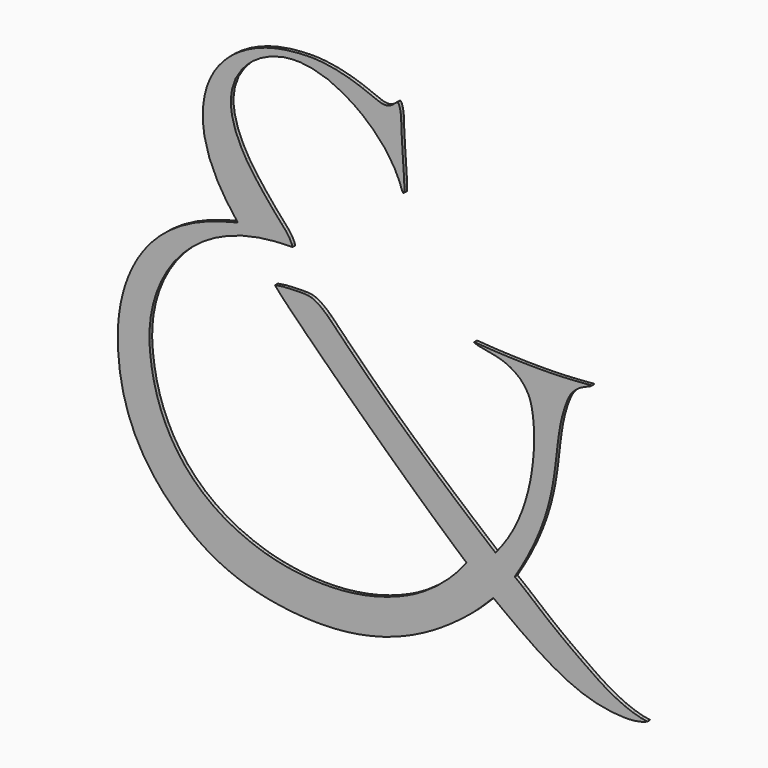
from build123d import *

# Parameters (mm, degrees)
F1_DEPTH = 2


with BuildPart() as f1:
    # F0 (on Front) → F1 (new body)
    with BuildSketch(Plane.XZ):
        Polygon((10.984825, 95.310414), (10.884039, 98.573952), (10.849697, 99.346204), (9.816774, 115.323175), (9.189251, 126.515287), (9.189251, 127.130044), (9.175296, 128.453485), (9.080587, 130.667887), (8.839792, 133.007227), (8.412451, 135.171226), (7.839021, 136.809596), (7.344427, 137.596618), (7.155433, 137.743794), (6.653659, 137.478659), (6.07927, 137.087629), (5.920722, 136.963303), (5.843852, 136.902766), (5.438877, 136.556776), (4.60922, 135.846624), (3.453265, 134.994965), (1.82517, 134.142297), (0.690024, 133.963063), (-0.098912, 133.857064), (-1.47029, 133.96024), (-2.630014, 134.201964), (-3.415205, 134.443412), (-3.760815, 134.566462), (-13.383422, 138.253706), (-15.286764, 138.978047), (-21.221278, 140.88721), (-28.959907, 142.784285), (-36.497158, 143.92293), (-41.935522, 144.299776), (-43.692293, 144.299776), (-45.42664, 144.299776), (-50.706378, 144.071049), (-57.404764, 143.386069), (-63.691599, 142.258417), (-69.597226, 140.69668), (-75.120392, 138.710518), (-80.269026, 136.301556), (-85.091415, 133.453487), (-88.44924, 131.077711), (-89.468298, 130.246729), (-90.471954, 129.427418), (-93.418494, 126.661828), (-96.879731, 122.761714), (-99.760712, 118.654363), (-102.11394, 114.287918), (-103.949154, 109.641041), (-105.271703, 104.693895), (-106.08001, 99.381371), (-106.350042, 95.186199), (-106.350042, 93.827422), (-106.350042, 91.417683), (-105.418475, 83.898526), (-102.56453, 73.596483), (-97.737036, 63.091849), (-92.771587, 54.98952), (-86.007072, 45.751051), (-96.405688, 42.975838), (-103.435836, 40.655145), (-111.855108, 37.130373), (-119.271235, 33.146491), (-125.791389, 28.757648), (-131.484499, 24.030643), (-136.415589, 19.028048), (-140.647441, 13.807643), (-144.237232, 8.430757), (-147.234688, 2.957684), (-149.691932, -2.547085), (-151.656035, -8.017346), (-153.174243, -13.38127), (-154.294734, -18.565772), (-155.064381, -23.497421), (-155.535942, -28.124426), (-155.725698, -31.26379), (-155.753535, -32.291427), (-155.826462, -34.855012), (-155.627517, -42.648644), (-154.62149, -52.941014), (-152.695038, -63.001567), (-149.789868, -72.822045), (-145.850395, -82.364778), (-140.817922, -91.590423), (-134.594908, -100.50522), (-129.133817, -106.971908), (-127.202645, -108.952277), (-126.427004, -109.747399), (-124.039805, -112.11472), (-120.724905, -115.243744), (-117.260518, -118.293027), (-113.614318, -121.256804), (-109.760806, -124.118397), (-105.672331, -126.863694), (-101.324544, -129.475199), (-96.685646, -131.938442), (-91.730685, -134.236135), (-86.427529, -136.350509), (-80.748891, -138.263921), (-74.665292, -139.955146), (-68.147932, -141.405949), (-61.168593, -142.592185), (-53.679966, -143.498208), (-47.697126, -143.98821), (-45.714616, -144.092905), (-43.702952, -144.201599), (-37.58552, -144.298314), (-29.73374, -144.043566), (-22.228544, -143.361145), (-15.030776, -142.28261), (-8.130211, -140.8411), (-1.515594, -139.066607), (4.820519, -136.991029), (10.887858, -134.645034), (16.694078, -132.057397), (22.249795, -129.259063), (27.55979, -126.282281), (32.630684, -123.15614), (37.470885, -119.911192), (42.085517, -116.578115), (46.490202, -113.181457), (49.63613, -110.635907), (50.668104, -109.772439), (51.078406, -109.43037), (52.337846, -108.324181), (54.396569, -106.439091), (56.734498, -104.210753), (58.652015, -102.33518), (62.778578, -98.2248), (69.450406, -103.233587), (77.715906, -109.253099), (87.823057, -116.191018), (97.199715, -121.979003), (106.045727, -126.639839), (114.558778, -130.205497), (122.965297, -132.718454), (131.575515, -134.225823), (138.301294, -134.726541), (140.497331, -134.726541), (141.459567, -134.726541), (144.471784, -134.527217), (147.932825, -133.98181), (150.724068, -133.195355), (152.499477, -132.428146), (148.754145, -131.794817), (144.037602, -130.491118), (139.046019, -128.614528), (133.757344, -126.135804), (128.185086, -123.038434), (123.716844, -120.240915), (122.247989, -119.245058), (120.032189, -117.744638), (113.450799, -113.174613), (106.165661, -107.93466), (100.100232, -103.376555), (95.004209, -99.373423), (90.628857, -95.802796), (86.711908, -92.542669), (82.994752, -89.457808), (80.158778, -87.160918), (75.264201, -83.316635), (79.096558, -76.92787), (82.659892, -70.515348), (86.656432, -62.51045), (89.900086, -55.013351), (92.499315, -47.962272), (94.543809, -41.314991), (96.129008, -35.024113), (97.342752, -29.044773), (98.271973, -23.325883), (99.006962, -17.818682), (99.631291, -12.478403), (100.238547, -7.257027), (100.922932, -2.118394), (101.776727, 2.976898), (102.910345, 8.059918), (104.414104, 13.097924), (105.853703, 16.92614), (106.423654, 18.198648), (106.767016, 18.977912), (108.012083, 21.062114), (110.267687, 23.640002), (113.317394, 25.865172), (116.226583, 27.317756), (117.321772, 27.723193), (117.874406, 27.918954), (119.397602, 28.655386), (120.178866, 29.257588), (120.141771, 29.257588), (120.040094, 29.257588), (119.382159, 29.212402), (117.410931, 29.055452), (114.596703, 28.82694), (110.982093, 28.561783), (106.623679, 28.298209), (101.559403, 28.06698), (95.835715, 27.904073), (91.063246, 27.841284), (89.461111, 27.841284), (87.41275, 27.841284), (81.294699, 27.903671), (74.117089, 28.067989), (67.91348, 28.298534), (62.696189, 28.564125), (58.478011, 28.829387), (55.278213, 29.05767), (53.112559, 29.214974), (52.459591, 29.25858), (52.377218, 29.2578), (52.172634, 29.256193), (51.60924, 29.195203), (52.008284, 28.912284), (52.961491, 28.48137), (54.069245, 28.157184), (54.396377, 28.093247), (63.981985, 26.246596), (64.761637, 26.083785), (66.838863, 25.528166), (69.695431, 24.538216), (72.649378, 23.183025), (75.578024, 21.41235), (78.377855, 19.16517), (80.914558, 16.379922), (82.976691, 13.106975), (84.208204, 10.222669), (84.512886, 9.143074), (84.748612, 8.31975), (85.277112, 5.945773), (85.853999, 2.409432), (86.262112, -1.549621), (86.488771, -5.86755), (86.512988, -10.506897), (86.322431, -15.424984), (85.894669, -20.582159), (85.210349, -25.931595), (84.246885, -31.429931), (82.981911, -37.026036), (81.390644, -42.67482), (79.452694, -48.325919), (77.13798, -53.932893), (74.423557, -59.44128), (71.302543, -64.76656), (68.663209, -68.66311), (64.084551, -74.685084), (56.793323, -68.617176), (48.704164, -61.809733), (38.736701, -53.299947), (29.558226, -45.322535), (21.13736, -37.871796), (13.437888, -30.933081), (6.426795, -24.496625), (0.066539, -18.551085), (-5.676941, -13.082163), (-10.837672, -8.082274), (-15.450703, -3.539071), (-19.548204, 0.55843), (-23.165581, 4.217433), (-26.333951, 7.447973), (-29.082633, 10.255957), (-31.446306, 12.651059), (-32.940563, 14.141117), (-33.432989, 14.619536), (-34.195959, 15.361627), (-36.639343, 17.493329), (-39.368668, 19.47485), (-41.601163, 20.683445), (-43.527293, 21.371755), (-45.397128, 21.731497), (-47.470811, 21.87045), (-49.922388, 21.85668), (-52.060066, 21.803508), (-52.811625, 21.79212), (-54.540591, 21.767752), (-59.695939, 21.459085), (-64.172325, 20.744414), (-64.290635, 20.69638), (-63.157208, 19.290168), (-61.080828, 16.957448), (-58.955786, 14.695306), (-58.239267, 13.953642), (-57.31215, 12.995204), (-54.497266, 10.118612), (-50.12683, 5.707254), (-45.197594, 0.79041), (-39.766274, -4.573582), (-33.893825, -10.322443), (-27.639366, -16.395272), (-21.059861, -22.731279), (-14.216282, -29.272552), (-7.167008, -35.954919), (0.029411, -42.721103), (7.313644, -49.509317), (14.626168, -56.258347), (21.910008, -62.907983), (29.105519, -69.400265), (36.155068, -75.673109), (41.278682, -80.175571), (47.227798, -85.339996), (42.066841, -91.478927), (37.128369, -96.551473), (30.134052, -102.59404), (22.762428, -107.767502), (17.118703, -111.060606), (15.122437, -112.044233), (13.387753, -112.900116), (8.154531, -115.180686), (1.286462, -117.712362), (-5.530193, -119.718632), (-12.223239, -121.235983), (-18.751052, -122.312237), (-25.076335, -122.996751), (-31.165572, -123.336849), (-36.978286, -123.378638), (-42.481361, -123.172309), (-47.639011, -122.763035), (-52.41612, -122.197615), (-56.777133, -121.522744), (-60.685556, -120.785024), (-64.111105, -120.029247), (-67.000773, -119.303962), (-68.769888, -118.819162), (-69.367279, -118.64354), (-71.604203, -117.987451), (-78.128401, -115.70924), (-86.148743, -112.292936), (-93.544462, -108.388352), (-100.296488, -104.045367), (-106.417516, -99.299539), (-111.919492, -94.191884), (-116.818356, -88.763575), (-121.130967, -83.059315), (-124.878856, -77.12146), (-128.083429, -70.991977), (-130.770417, -64.712759), (-132.963131, -58.322502), (-134.689777, -51.861389), (-135.977617, -45.36441), (-136.847718, -38.892714), (-137.257486, -34.042676), (-137.33405, -32.40009), (-137.414398, -30.695404), (-137.322702, -25.70839), (-136.66445, -19.033639), (-135.34204, -12.303726), (-133.349445, -5.629732), (-130.671278, 0.918676), (-127.295573, 7.271369), (-123.205431, 13.35542), (-118.392536, 19.093053), (-112.849385, 24.406702), (-106.568097, 29.218841), (-99.552098, 33.450238), (-91.803405, 37.02622), (-83.328888, 39.877482), (-74.13029, 41.940259), (-64.253317, 43.14544), (-56.264141, 43.487547), (-54.217537, 43.45529), (-54.511552, 44.910035), (-55.937886, 47.756639), (-57.992265, 50.604369), (-58.71387, 51.427901), (-60.360988, 53.254602), (-65.265876, 58.894139), (-70.97477, 65.812024), (-75.824969, 72.141817), (-78.869793, 76.426576), (-79.859936, 77.93565), (-81.054546, 79.781435), (-84.218449, 85.420843), (-87.371675, 92.572786), (-89.320747, 99.47133), (-90.003083, 104.521273), (-90.003083, 106.329556), (-90.003083, 108.102386), (-89.290734, 113.169639), (-87.144463, 119.373925), (-83.590397, 125.005042), (-80.008298, 128.932822), (-78.615572, 130.135788), (-77.178502, 131.359223), (-72.668075, 134.392387), (-66.297457, 137.369311), (-59.413794, 139.140066), (-53.841373, 139.725716), (-51.921893, 139.725716), (-49.522777, 139.725716), (-42.640572, 138.826814), (-33.543742, 136.201434), (-24.480658, 131.901712), (-17.589875, 127.574168), (-15.396942, 125.940986), (-13.195613, 124.312922), (-7.047417, 118.974832), (-0.183649, 111.503055), (5.194342, 103.478067), (8.283452, 97.073744), (9.079786, 94.74641), (9.222142, 94.325199), (9.813569, 93.060531), (10.374709, 92.294535), (10.648973, 92.35369), (10.799619, 92.447962), (10.892002, 92.595487), (11.008399, 93.133467), (11.008399, 93.225188), (11.008399, 93.736725), align=None)
    extrude(amount=F1_DEPTH)


solid = f1.part
